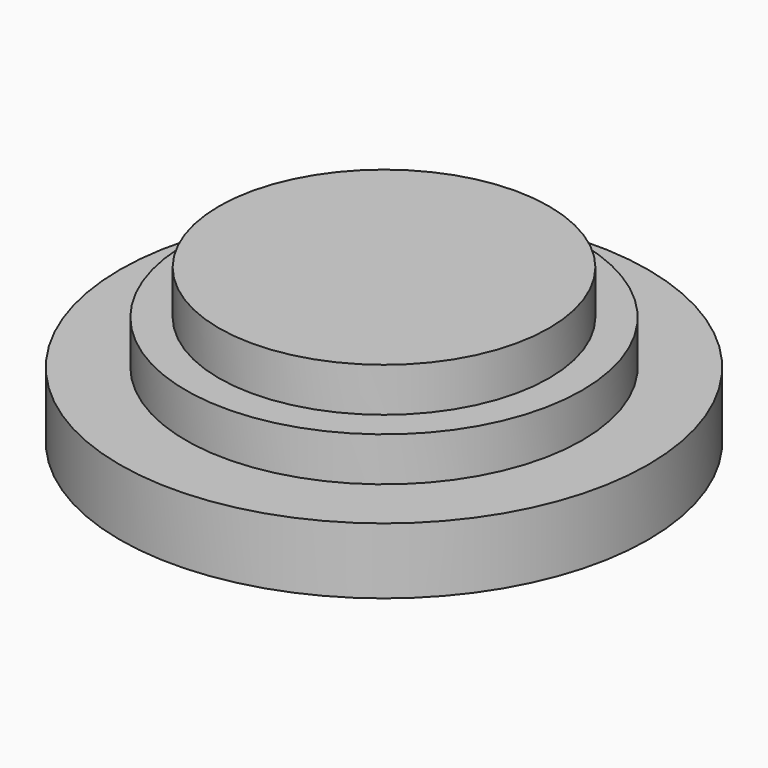
from build123d import *

# Parameters (mm, degrees)
SKETCH001_R      = 9
EXTRUDE001_DEPTH = 5
SKETCH004_R      = 12
EXTRUDE004_DEPTH = 3
SKETCH_R         = 7.5
EXTRUDE_DEPTH    = 7


with BuildPart() as extrude001:
    # Sketch001 → Extrude001 (new body)
    with BuildSketch(Plane.XY):
        Circle(SKETCH001_R)
    extrude(amount=EXTRUDE001_DEPTH)


with BuildPart() as extrude004:
    # Sketch004 → Extrude004 (new body)
    with BuildSketch(Plane.XY):
        Circle(SKETCH004_R)
    extrude(amount=EXTRUDE004_DEPTH)


with BuildPart() as model_fusion:
    # Sketch → Extrude (new body)
    with BuildSketch(Plane.XY):
        Circle(SKETCH_R)
    extrude(amount=EXTRUDE_DEPTH)

    # Fusion: union Extrude001, Extrude004
    add(extrude001.part)
    add(extrude004.part)


solid = model_fusion.part
